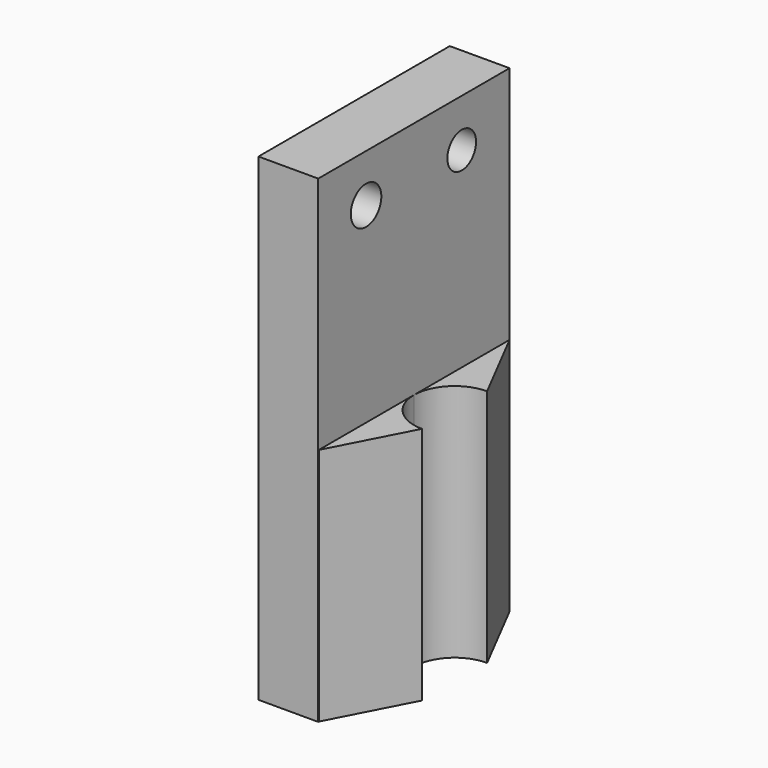
from build123d import *

# Parameters (mm, degrees)
F0_W     = 12.7
F0_H     = 25.4
F0_R     = 1.014077
F0_R_2   = 0.9525
F1_DEPTH = 3.175
F3_DEPTH = 12.7


with BuildPart() as f1:
    # F0 (on Right) → F1 (new body)
    with BuildSketch(Plane.YZ):
        with Locations((-6.35, 12.7)):
            Rectangle(F0_W, F0_H)
        with Locations((-9.525, 22.86)):
            Circle(F0_R, mode=Mode.SUBTRACT)
        with Locations((-3.175, 22.86)):
            Circle(F0_R_2, mode=Mode.SUBTRACT)
    extrude(amount=F1_DEPTH)

    # F2 (on Top) → F3 (join)
    with BuildSketch(Plane.XY):
        with BuildLine():
            ThreePointArc((5.334, -8.509), (3.807356, -7.876644), (3.175, -6.35))
            Line((3.175, -6.35), (3.175, -12.664954))
            Line((3.175, -12.664954), (5.334, -8.509))
        make_face()
        with BuildLine():
            ThreePointArc((3.175, -6.35), (3.807356, -4.823356), (5.334, -4.191))
            Line((5.334, -4.191), (3.175, 0))
            Line((3.175, 0), (3.175, -6.35))
        make_face()
    extrude(amount=F3_DEPTH)


solid = f1.part
